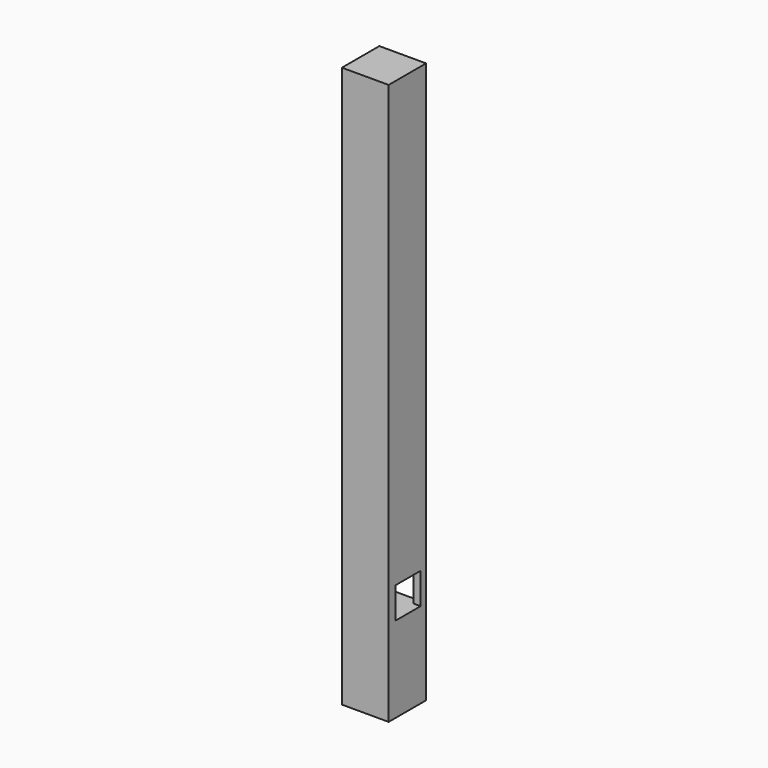
from build123d import *

# Parameters (mm, degrees)
F0_W     = 75
F0_H     = 75
F1_DEPTH = 900
F2_W     = 50
F2_H     = 50
F3_DEPTH = 50
F5_W     = 50
F5_H     = 50
F6_DEPTH = 50


with BuildPart() as f1:
    # F0 (on Top) → F1 (new body)
    with BuildSketch(Plane.XY):
        Rectangle(F0_W, F0_H)
    extrude(amount=F1_DEPTH)

    # F2 (on face) → F3 (cut)
    with BuildSketch(Plane.YZ.offset(37.5)):
        with Locations((1.5, 162.5)):
            Rectangle(F2_W, F2_H)
    extrude(amount=-F3_DEPTH, mode=Mode.SUBTRACT)

    # F5 (on face) → F6 (cut)
    with BuildSketch(Plane(origin=(0, 37.5, 0), x_dir=(-1, 0, 0), z_dir=(0, 1, 0))):
        with Locations((-1.5, 162.5)):
            Rectangle(F5_W, F5_H)
    extrude(amount=-F6_DEPTH, mode=Mode.SUBTRACT)


solid = f1.part
